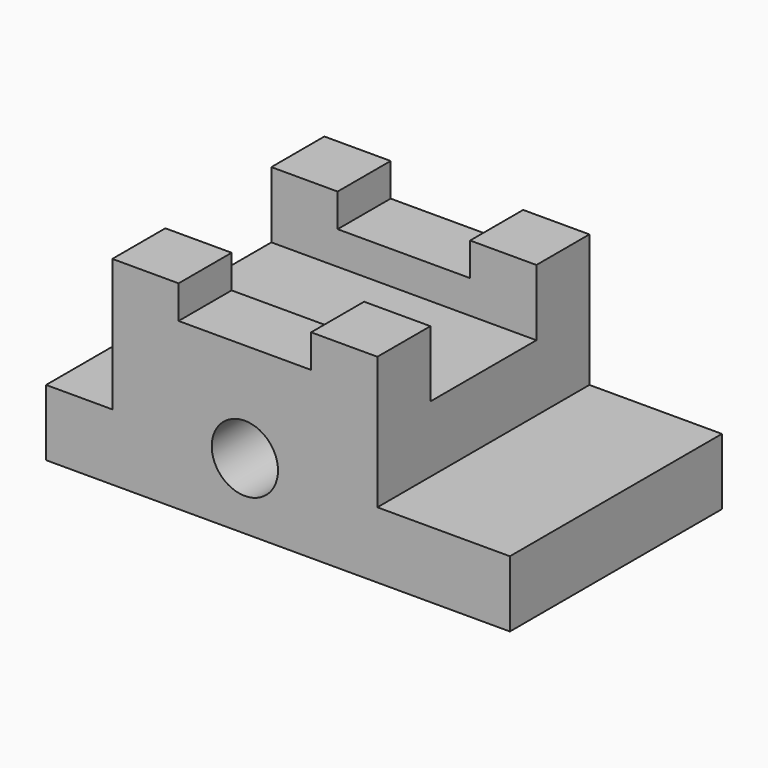
from build123d import *

# Parameters (mm, degrees)
F0_W      = 88.9
F0_H      = 38.1
F1_DEPTH  = 50.8
F2_W      = 25.4
F2_H      = 6.35
F3_DEPTH  = 50.801
F4_W      = 12.7
F4_H      = 25.4
F5_DEPTH  = 50.801
F6_W      = 25.4
F6_H      = 25.4
F7_DEPTH  = 50.801
F8_W      = 25.4
F8_H      = 12.7
F9_DEPTH  = 63.501
F10_R     = 6.35
F11_DEPTH = 50.801


with BuildPart() as f1:
    # F0 (on Front) → F1 (new body)
    with BuildSketch(Plane.XZ):
        with Locations((-20.30329, 8.548363)):
            Rectangle(F0_W, F0_H)
    extrude(amount=F1_DEPTH)

    # F2 (on face) → F3 (cut, through all)
    with BuildSketch(Plane.XZ.offset(50.8)):
        with Locations((-26.65329, 24.423363)):
            Rectangle(F2_W, F2_H)
    extrude(amount=-F3_DEPTH, mode=Mode.SUBTRACT)

    # F4 (on face) → F5 (cut, through all)
    with BuildSketch(Plane.XZ.offset(50.8)):
        with Locations((-58.40329, 14.898363)):
            Rectangle(F4_W, F4_H)
    extrude(amount=-F5_DEPTH, mode=Mode.SUBTRACT)

    # F6 (on face) → F7 (cut, through all)
    with BuildSketch(Plane.XZ.offset(50.8)):
        with Locations((11.44671, 14.898363)):
            Rectangle(F6_W, F6_H)
    extrude(amount=-F7_DEPTH, mode=Mode.SUBTRACT)

    # F8 (on face) → F9 (cut, through all)
    with BuildSketch(Plane.YZ.offset(-1.25329)):
        with Locations((-25.4, 21.248363)):
            Rectangle(F8_W, F8_H)
    extrude(amount=-F9_DEPTH, mode=Mode.SUBTRACT)

    # F10 (on face) → F11 (cut, through all)
    with BuildSketch(Plane.XZ.offset(50.8)):
        with Locations((-26.65329, 2.198363)):
            Circle(F10_R)
    extrude(amount=-F11_DEPTH, mode=Mode.SUBTRACT)


solid = f1.part
